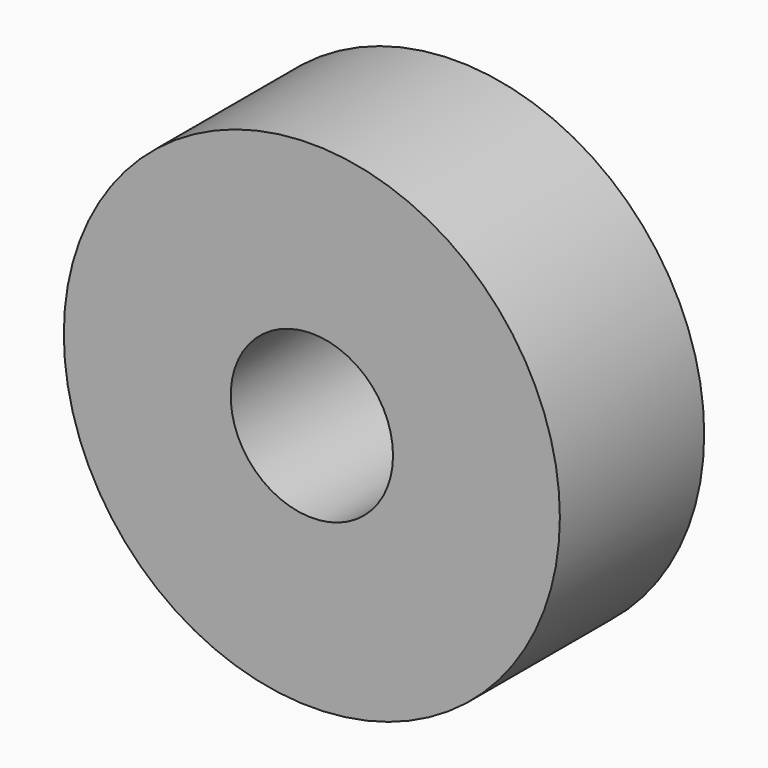
from build123d import *

# Parameters (mm, degrees)
CYLINDER015_R            = 0.9
CYLINDER015_DEPTH        = 2
CYLINDER014_R            = 2.75
CYLINDER014_DEPTH        = 2
CLONE016_PLACEMENT_ANGLE = 90


with BuildPart() as faceanchorscrewhole:
    # Cylinder015 → Cylinder015 (new body)
    with BuildSketch(Plane.XY):
        Circle(CYLINDER015_R)
    extrude(amount=CYLINDER015_DEPTH)


with BuildPart() as faceanchor002:
    # Cylinder014 → Cylinder014 (new body)
    with BuildSketch(Plane.XY):
        Circle(CYLINDER014_R)
    extrude(amount=CYLINDER014_DEPTH)

    # Cut015: cut FaceAnchorScrewHole
    add(faceanchorscrewhole.part, mode=Mode.SUBTRACT)


with BuildPart() as faceanchor002_1:
    # Clone016 placement: moved
    add(faceanchor002.part.moved(Location((110, 2, 35))).rotate(Axis((110, 2, 35), (1, 0, 0)), CLONE016_PLACEMENT_ANGLE))


solid = faceanchor002_1.part
